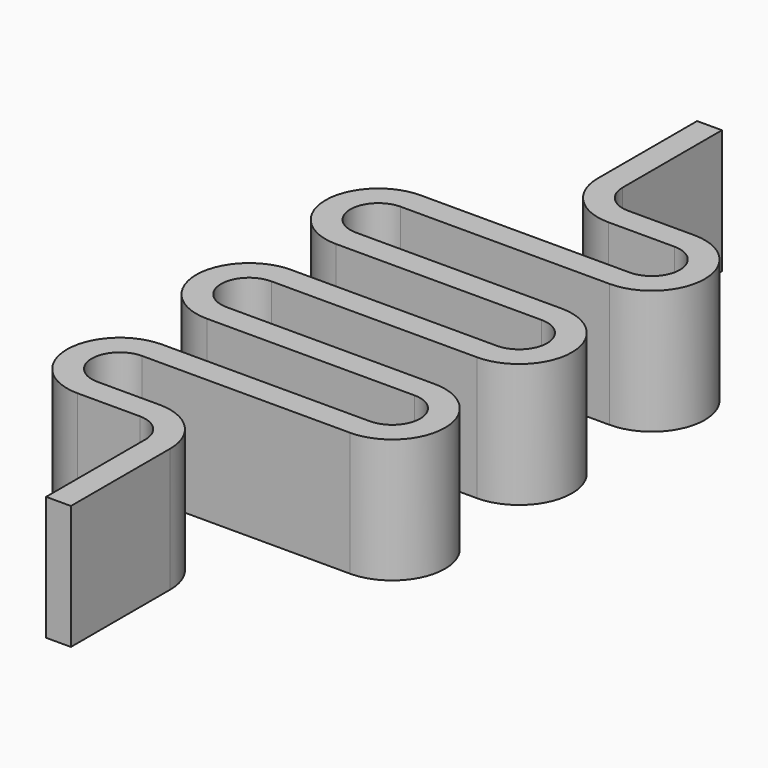
from build123d import *

# Parameters (mm, degrees)
PAD_DEPTH = 10


with BuildPart() as part:
    # Sketch → Pad (new body)
    with BuildSketch(Plane.XY):
        with BuildLine():
            ThreePointArc((-8.268261, 24.087282), (-12.523239, 19.832304), (-8.268261, 15.577326))
            Line((8.472095, 15.577326), (-8.268261, 15.577326))
            ThreePointArc((8.472095, 11.06737), (10.727073, 13.322348), (8.472095, 15.577326))
            Line((-8.268261, 11.06737), (8.472095, 11.06737))
            ThreePointArc((-8.268261, 11.06737), (-12.523239, 6.812392), (-8.268261, 2.557415))
            Line((-3.254978, 2.557415), (-8.268261, 2.557415))
            ThreePointArc((-1, 0.302437), (-1.660468, 1.896947), (-3.254978, 2.557415))
            Line((-1, 0.302437), (-1, -9.697563))
            Line((1, -9.697563), (-1, -9.697563))
            Line((1, 0.302437), (1, -9.697563))
            ThreePointArc((1, 0.302437), (-0.246254, 3.31116), (-3.254978, 4.557415))
            Line((-8.268261, 4.557415), (-3.254978, 4.557415))
            ThreePointArc((-8.268261, 9.06737), (-10.523239, 6.812392), (-8.268261, 4.557415))
            Line((-8.268261, 9.06737), (8.472095, 9.06737))
            ThreePointArc((8.472095, 9.06737), (12.727073, 13.322348), (8.472095, 17.577326))
            Line((-8.268261, 17.577326), (8.472095, 17.577326))
            ThreePointArc((-8.268261, 22.087282), (-10.523239, 19.832304), (-8.268261, 17.577326))
            Line((-8.268261, 22.087282), (8.286925, 22.087282))
            ThreePointArc((8.286925, 22.087282), (12.541903, 26.34226), (8.286925, 30.597238))
            Line((-8.268261, 30.597238), (8.286925, 30.597238))
            ThreePointArc((-8.268261, 35.107193), (-10.523239, 32.852215), (-8.268261, 30.597238))
            Line((-8.268261, 35.107193), (8.568532, 35.107193))
            ThreePointArc((8.568532, 35.107193), (12.82351, 39.362171), (8.568532, 43.617149))
            Line((8.568532, 43.617149), (3.254978, 43.617149))
            ThreePointArc((1, 45.872127), (1.660468, 44.277617), (3.254978, 43.617149))
            Line((1, 55.872127), (1, 45.872127))
            Line((-1, 55.872127), (1, 55.872127))
            Line((-1, 45.872127), (-1, 55.872127))
            ThreePointArc((-1, 45.872127), (0.246254, 42.863403), (3.254978, 41.617149))
            Line((8.568532, 41.617149), (3.254978, 41.617149))
            ThreePointArc((8.568532, 37.107193), (10.82351, 39.362171), (8.568532, 41.617149))
            Line((-8.268261, 37.107193), (8.568532, 37.107193))
            ThreePointArc((-8.268261, 37.107193), (-12.523239, 32.852215), (-8.268261, 28.597238))
            Line((8.286925, 28.597238), (-8.268261, 28.597238))
            ThreePointArc((8.286925, 24.087282), (10.541903, 26.34226), (8.286925, 28.597238))
            Line((-8.268261, 24.087282), (8.286925, 24.087282))
        make_face()
    extrude(amount=PAD_DEPTH)


solid = part.part
